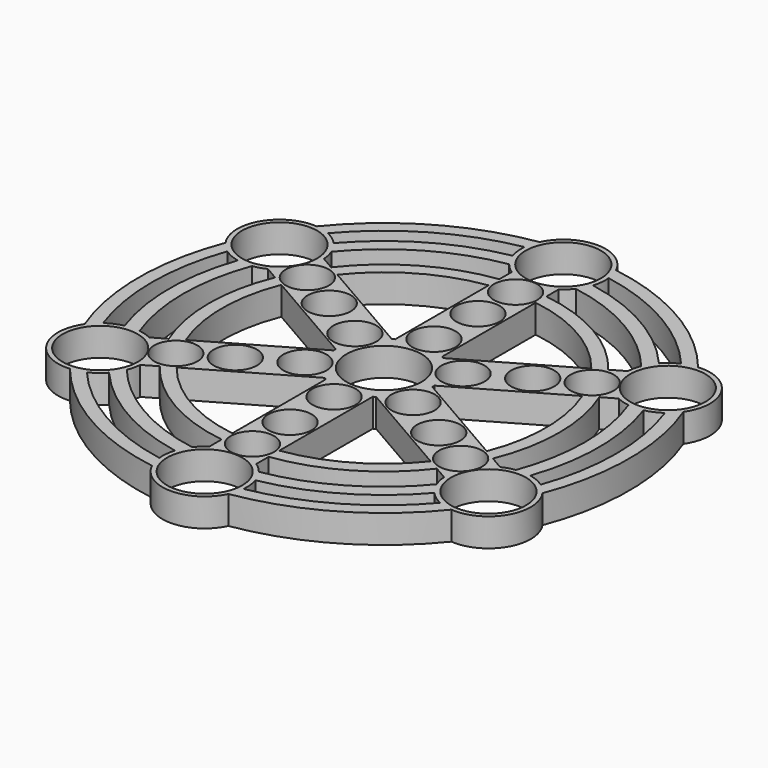
from build123d import *

# Parameters (mm, degrees)
F0_R     = 8
F0_R_2   = 4.6
F1_DEPTH = 6


with BuildPart() as f1:
    # F0 (on Top) → F1 (new body)
    with BuildSketch(Plane.XY):
        with BuildLine():
            ThreePointArc((8.133285, 51.569935), (0, 56.716407), (-8.133285, 51.569935))
            ThreePointArc((-8.133285, 51.569935), (-26.10368, 45.2129), (-40.594231, 32.828599))
            ThreePointArc((-40.594231, 32.828599), (-49.11785, 28.358204), (-48.727516, 18.741336))
            ThreePointArc((-48.727516, 18.741336), (-52.20736, 0), (-48.727516, -18.741336))
            ThreePointArc((-48.727516, -18.741336), (-49.11785, -28.358204), (-40.594231, -32.828599))
            ThreePointArc((-40.594231, -32.828599), (-26.10368, -45.2129), (-8.133285, -51.569935))
            ThreePointArc((-8.133285, -51.569935), (0, -56.716407), (8.133285, -51.569935))
            ThreePointArc((8.133285, -51.569935), (26.10368, -45.2129), (40.594231, -32.828599))
            ThreePointArc((40.594231, -32.828599), (49.11785, -28.358204), (48.727516, -18.741336))
            ThreePointArc((48.727516, -18.741336), (52.20736, 0), (48.727516, 18.741336))
            ThreePointArc((48.727516, 18.741336), (49.11785, 28.358204), (40.594231, 32.828599))
            ThreePointArc((40.594231, 32.828599), (26.10368, 45.2129), (8.133285, 51.569935))
        make_face()
        with Locations((0, -47.716407)):
            Circle(F0_R, mode=Mode.SUBTRACT)
        with BuildLine():
            ThreePointArc((-8.957013, -48.595), (-24.706791, -42.793418), (-37.605998, -32.054501))
            ThreePointArc((-37.605998, -32.054501), (-36.004284, -31.118001), (-34.628643, -29.872959))
            ThreePointArc((-34.628643, -29.872959), (-22.86666, -39.606217), (-8.556419, -44.925764))
            ThreePointArc((-8.556419, -44.925764), (-8.946837, -46.739625), (-8.957013, -48.595))
        make_face(mode=Mode.SUBTRACT)
        with BuildLine():
            ThreePointArc((-32.976392, -27.223285), (-32.549111, -25.860197), (-32.34288, -24.446673))
            Line((-32.34288, -24.446673), (-29.498214, -22.804304))
            ThreePointArc((-29.498214, -22.804304), (-18.642565, -32.28987), (-5, -36.948355))
            Line((-5, -36.948355), (-5, -40.233093))
            ThreePointArc((-5, -40.233093), (-6.121032, -41.118455), (-7.08786, -42.170036))
            ThreePointArc((-7.08786, -42.170036), (-21.380772, -37.032584), (-32.976392, -27.223285))
        make_face(mode=Mode.SUBTRACT)
        with Locations((0, -35)):
            Circle(F0_R_2, mode=Mode.SUBTRACT)
        with Locations((-41.323621, -23.858204)):
            Circle(F0_R, mode=Mode.SUBTRACT)
        with Locations((-30.310889, -17.5)):
            Circle(F0_R_2, mode=Mode.SUBTRACT)
        with BuildLine():
            Line((-27.035901, -21.382687), (-5.496093, -8.946673))
            ThreePointArc((-5.496093, -8.946673), (-5.25, -9.093267), (-5, -9.233093))
            Line((-5, -9.233093), (-5, -34.105121))
            ThreePointArc((-5, -34.105121), (-17.234843, -29.851624), (-27.035901, -21.382687))
        make_face(mode=Mode.SUBTRACT)
        with Locations((0, -25)):
            Circle(F0_R_2, mode=Mode.SUBTRACT)
        with Locations((-21.650635, -12.5)):
            Circle(F0_R_2, mode=Mode.SUBTRACT)
        with Locations((0, -13.292061)):
            Circle(F0_R_2, mode=Mode.SUBTRACT)
        with Locations((-11.511263, -6.646031)):
            Circle(F0_R_2, mode=Mode.SUBTRACT)
        with BuildLine():
            ThreePointArc((8.556419, -44.925764), (22.86666, -39.606217), (34.628643, -29.872959))
            ThreePointArc((34.628643, -29.872959), (36.004284, -31.118001), (37.605998, -32.054501))
            ThreePointArc((37.605998, -32.054501), (24.706791, -42.793418), (8.957013, -48.595))
            ThreePointArc((8.957013, -48.595), (8.946837, -46.739625), (8.556419, -44.925764))
        make_face(mode=Mode.SUBTRACT)
        with BuildLine():
            ThreePointArc((7.08786, -42.170036), (6.121032, -41.118455), (5, -40.233093))
            Line((5, -40.233093), (5, -36.948355))
            ThreePointArc((5, -36.948355), (18.642565, -32.28987), (29.498214, -22.804304))
            Line((29.498214, -22.804304), (32.34288, -24.446673))
            ThreePointArc((32.34288, -24.446673), (32.549111, -25.860197), (32.976392, -27.223285))
            ThreePointArc((32.976392, -27.223285), (21.380772, -37.032584), (7.08786, -42.170036))
        make_face(mode=Mode.SUBTRACT)
        with BuildLine():
            ThreePointArc((5, -9.233093), (5.25, -9.093267), (5.496093, -8.946673))
            Line((5.496093, -8.946673), (27.035901, -21.382687))
            ThreePointArc((27.035901, -21.382687), (17.234843, -29.851624), (5, -34.105121))
            Line((5, -34.105121), (5, -9.233093))
        make_face(mode=Mode.SUBTRACT)
        with BuildLine():
            ThreePointArc((7.052873, -7.778623), (10.940557, -2.081571), (16.111263, -6.646031))
            ThreePointArc((16.111263, -6.646031), (12.081968, -11.210491), (7.052873, -7.778623))
        make_face(mode=Mode.SUBTRACT)
        with Locations((21.650635, -12.5)):
            Circle(F0_R_2, mode=Mode.SUBTRACT)
        with BuildLine():
            Line((32.035901, -12.722433), (10.496093, -0.286419))
            ThreePointArc((10.496093, -0.286419), (10.5, 0), (10.496093, 0.286419))
            Line((10.496093, 0.286419), (32.035901, 12.722433))
            ThreePointArc((32.035901, 12.722433), (34.469686, 0), (32.035901, -12.722433))
        make_face(mode=Mode.SUBTRACT)
        with Locations((30.310889, -17.5)):
            Circle(F0_R_2, mode=Mode.SUBTRACT)
        with Locations((41.323621, -23.858204)):
            Circle(F0_R, mode=Mode.SUBTRACT)
        with BuildLine():
            ThreePointArc((40.064253, -14.946751), (38.670143, -15.258259), (37.34288, -15.786419))
            Line((37.34288, -15.786419), (34.498214, -14.14405))
            ThreePointArc((34.498214, -14.14405), (37.28513, 0), (34.498214, 14.14405))
            Line((34.498214, 14.14405), (37.34288, 15.786419))
            ThreePointArc((37.34288, 15.786419), (38.670143, 15.258259), (40.064253, 14.946751))
            ThreePointArc((40.064253, 14.946751), (42.761545, 0), (40.064253, -14.946751))
        make_face(mode=Mode.SUBTRACT)
        with BuildLine():
            ThreePointArc((43.185063, -15.052806), (45.73332, 0), (43.185063, 15.052806))
            ThreePointArc((43.185063, 15.052806), (44.951122, 15.621624), (46.563011, 16.5405))
            ThreePointArc((46.563011, 16.5405), (49.413582, 0), (46.563011, -16.5405))
            ThreePointArc((46.563011, -16.5405), (44.951122, -15.621624), (43.185063, -15.052806))
        make_face(mode=Mode.SUBTRACT)
        with BuildLine():
            ThreePointArc((-46.563011, 16.5405), (-44.951122, 15.621624), (-43.185063, 15.052806))
            ThreePointArc((-43.185063, 15.052806), (-45.73332, 0), (-43.185063, -15.052806))
            ThreePointArc((-43.185063, -15.052806), (-44.951122, -15.621624), (-46.563011, -16.5405))
            ThreePointArc((-46.563011, -16.5405), (-49.413582, 0), (-46.563011, 16.5405))
        make_face(mode=Mode.SUBTRACT)
        with BuildLine():
            ThreePointArc((-40.064253, 14.946751), (-38.670143, 15.258259), (-37.34288, 15.786419))
            Line((-37.34288, 15.786419), (-34.498214, 14.14405))
            ThreePointArc((-34.498214, 14.14405), (-37.28513, 0), (-34.498214, -14.14405))
            Line((-34.498214, -14.14405), (-37.34288, -15.786419))
            ThreePointArc((-37.34288, -15.786419), (-38.670143, -15.258259), (-40.064253, -14.946751))
            ThreePointArc((-40.064253, -14.946751), (-42.761545, 0), (-40.064253, 14.946751))
        make_face(mode=Mode.SUBTRACT)
        with Locations((-41.323621, 23.858204)):
            Circle(F0_R, mode=Mode.SUBTRACT)
        with Locations((-30.310889, 17.5)):
            Circle(F0_R_2, mode=Mode.SUBTRACT)
        with BuildLine():
            Line((-32.035901, 12.722433), (-10.496093, 0.286419))
            ThreePointArc((-10.496093, 0.286419), (-10.5, 0), (-10.496093, -0.286419))
            Line((-10.496093, -0.286419), (-32.035901, -12.722433))
            ThreePointArc((-32.035901, -12.722433), (-34.469686, 0), (-32.035901, 12.722433))
        make_face(mode=Mode.SUBTRACT)
        with Locations((-21.650635, 12.5)):
            Circle(F0_R_2, mode=Mode.SUBTRACT)
        with Locations((-11.511263, 6.646031)):
            Circle(F0_R_2, mode=Mode.SUBTRACT)
        Circle(F0_R, mode=Mode.SUBTRACT)
        with Locations((0, 13.292061)):
            Circle(F0_R_2, mode=Mode.SUBTRACT)
        with BuildLine():
            Line((-5, 34.105121), (-5, 9.233093))
            ThreePointArc((-5, 9.233093), (-5.25, 9.093267), (-5.496093, 8.946673))
            Line((-5.496093, 8.946673), (-27.035901, 21.382687))
            ThreePointArc((-27.035901, 21.382687), (-17.234843, 29.851624), (-5, 34.105121))
        make_face(mode=Mode.SUBTRACT)
        with Locations((0, 25)):
            Circle(F0_R_2, mode=Mode.SUBTRACT)
        with BuildLine():
            ThreePointArc((-7.08786, 42.170036), (-6.121032, 41.118455), (-5, 40.233093))
            Line((-5, 40.233093), (-5, 36.948355))
            ThreePointArc((-5, 36.948355), (-18.642565, 32.28987), (-29.498214, 22.804304))
            Line((-29.498214, 22.804304), (-32.34288, 24.446673))
            ThreePointArc((-32.34288, 24.446673), (-32.549111, 25.860197), (-32.976392, 27.223285))
            ThreePointArc((-32.976392, 27.223285), (-21.380772, 37.032584), (-7.08786, 42.170036))
        make_face(mode=Mode.SUBTRACT)
        with BuildLine():
            ThreePointArc((-37.605998, 32.054501), (-24.706791, 42.793418), (-8.957013, 48.595))
            ThreePointArc((-8.957013, 48.595), (-8.946837, 46.739625), (-8.556419, 44.925764))
            ThreePointArc((-8.556419, 44.925764), (-22.86666, 39.606217), (-34.628643, 29.872959))
            ThreePointArc((-34.628643, 29.872959), (-36.004284, 31.118001), (-37.605998, 32.054501))
        make_face(mode=Mode.SUBTRACT)
        with Locations((0, 35)):
            Circle(F0_R_2, mode=Mode.SUBTRACT)
        with Locations((0, 47.716407)):
            Circle(F0_R, mode=Mode.SUBTRACT)
        with Locations((11.511263, 6.646031)):
            Circle(F0_R_2, mode=Mode.SUBTRACT)
        with Locations((21.650635, 12.5)):
            Circle(F0_R_2, mode=Mode.SUBTRACT)
        with BuildLine():
            Line((27.035901, 21.382687), (5.496093, 8.946673))
            ThreePointArc((5.496093, 8.946673), (5.25, 9.093267), (5, 9.233093))
            Line((5, 9.233093), (5, 34.105121))
            ThreePointArc((5, 34.105121), (17.234843, 29.851624), (27.035901, 21.382687))
        make_face(mode=Mode.SUBTRACT)
        with Locations((30.310889, 17.5)):
            Circle(F0_R_2, mode=Mode.SUBTRACT)
        with Locations((41.323621, 23.858204)):
            Circle(F0_R, mode=Mode.SUBTRACT)
        with BuildLine():
            Line((5, 36.948355), (5, 40.233093))
            ThreePointArc((5, 40.233093), (6.121032, 41.118455), (7.08786, 42.170036))
            ThreePointArc((7.08786, 42.170036), (21.380772, 37.032584), (32.976392, 27.223285))
            ThreePointArc((32.976392, 27.223285), (32.549111, 25.860197), (32.34288, 24.446673))
            Line((32.34288, 24.446673), (29.498214, 22.804304))
            ThreePointArc((29.498214, 22.804304), (18.642565, 32.28987), (5, 36.948355))
        make_face(mode=Mode.SUBTRACT)
        with BuildLine():
            ThreePointArc((8.957013, 48.595), (24.706791, 42.793418), (37.605998, 32.054501))
            ThreePointArc((37.605998, 32.054501), (36.004284, 31.118001), (34.628643, 29.872959))
            ThreePointArc((34.628643, 29.872959), (22.86666, 39.606217), (8.556419, 44.925764))
            ThreePointArc((8.556419, 44.925764), (8.946837, 46.739625), (8.957013, 48.595))
        make_face(mode=Mode.SUBTRACT)
    extrude(amount=F1_DEPTH)


solid = f1.part
